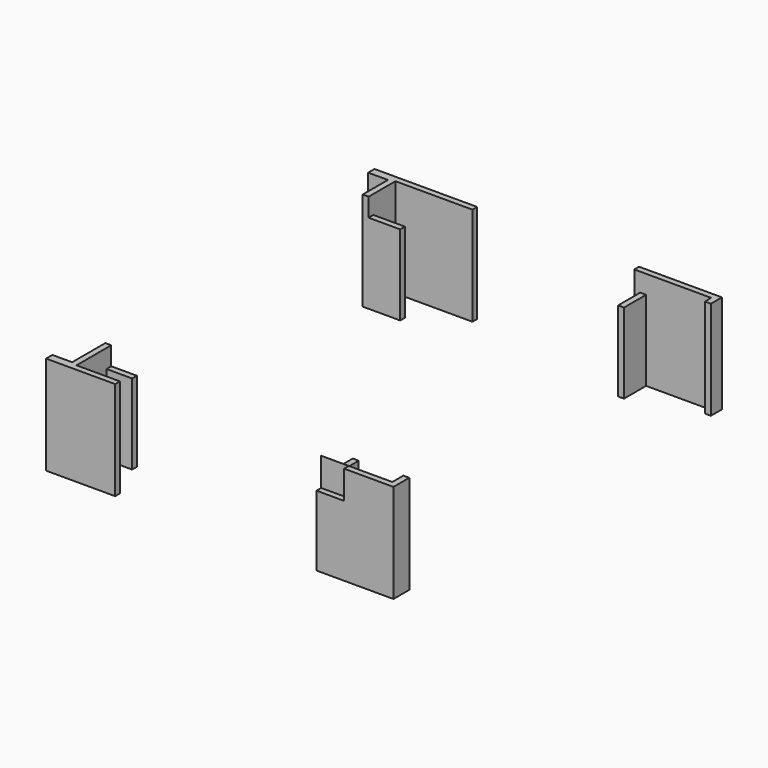
from build123d import *

# Parameters (mm, degrees)
SKETCH085_W            = 101
SKETCH085_H            = 80
EXTRUDE077_DEPTH       = 6
SKETCH084_W            = 4.185251
SKETCH084_H            = 58
EXTRUDE076_DEPTH       = 10
EXTRUDE074_DEPTH       = 25
CUT011_ROLL_ANGLE      = 180
CUT011_PLACEMENT_ANGLE = -90


with BuildPart() as extrude077:
    # Sketch085 → Extrude077 (new body)
    with BuildSketch(Plane(origin=(0, 0, -15), x_dir=(1, 0, 0), z_dir=(0, 0, -1))):
        with Locations((271, -221.5)):
            Rectangle(SKETCH085_W, SKETCH085_H)
    extrude(amount=EXTRUDE077_DEPTH)


with BuildPart() as compound022:
    # Sketch084 → Extrude076 (new body)
    with BuildSketch(Plane(origin=(0, 0, -12.5), x_dir=(1, 0, 0), z_dir=(0, 0, -1))):
        with Locations((323.602625, -221.5)):
            Rectangle(SKETCH084_W, SKETCH084_H)
    extrude(amount=EXTRUDE076_DEPTH)

    # Compound022: union Extrude077
    add(extrude077.part)


with BuildPart() as cut011:
    # Sketch083 → Extrude074 (new body)
    with BuildSketch(Plane(origin=(0, 0, 5.32), x_dir=(1, 0, 0), z_dir=(0, 0, -1))):
        Polygon((321.5, -250.5), (323, -250.5), (323, -268), (321, -268), (321, -263), (310.5, -263), (310.5, -255), (312, -255), (312, -261.5), (321.5, -261.5), align=None)
        Polygon((220.5, -242), (220.5, -261.5), (227.5, -261.5), (227.5, -253.5), (229, -253.5), (229, -263), (221.01, -263), (221.01, -268), (219, -268), (219, -242), align=None)
        Polygon((227.5, -199.5), (227.5, -198), (220.5, -198), (220.5, -181.5), (222.5, -181.5), (222.5, -180), (219, -180), (219, -201), (220.5, -201), (220.5, -199.5), align=None)
        Polygon((311.5, -199.5), (311.5, -198), (321.5, -198), (321.5, -181.5), (318, -181.5), (318, -180), (323, -180), (323, -199.5), align=None)
    extrude(amount=EXTRUDE074_DEPTH)

    # Cut011: cut Compound022
    add(compound022.part, mode=Mode.SUBTRACT)


with BuildPart() as cut011_1:
    # Cut011 roll: moved
    add(cut011.part.rotate(Axis((0, 0, 0), (1, 0, 0)), CUT011_ROLL_ANGLE))


with BuildPart() as cut011_2:
    # Cut011 placement: moved
    add(cut011_1.part.moved(Location((261, 321, -16.68))).rotate(Axis((261, 321, -16.68), (0, 0, 1)), CUT011_PLACEMENT_ANGLE))


solid = cut011_2.part
